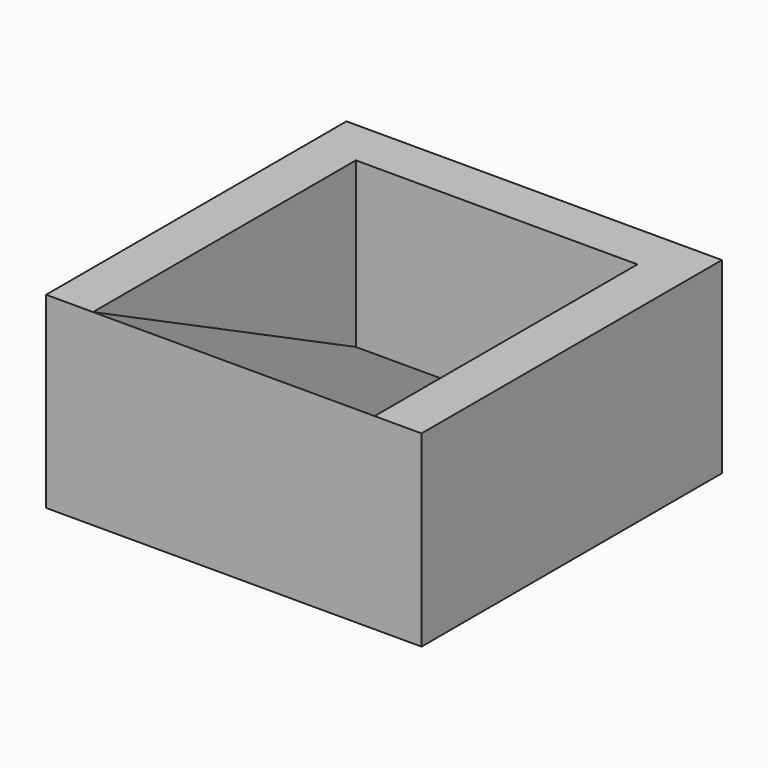
from build123d import *

# Parameters (mm, degrees)
F0_W     = 50.8
F0_H     = 50.8
F1_DEPTH = 25.4
F2_W     = 38.1
F2_H     = 44.45
F3_DEPTH = 25.4
F5_DEPTH = 47.752


with BuildPart() as f1:
    # F0 (on Top) → F1 (new body)
    with BuildSketch(Plane.XY):
        Rectangle(F0_W, F0_H)
    extrude(amount=F1_DEPTH)

    # F2 (on face) → F3 (cut)
    with BuildSketch(Plane.XY.offset(25.4)):
        with Locations((0, -3.175)):
            Rectangle(F2_W, F2_H)
    extrude(amount=-F3_DEPTH, mode=Mode.SUBTRACT)

    # F4 (on face) → F5 (join)
    with BuildSketch(Plane.YZ.offset(25.4)):
        Polygon((25.4, 0), (-25.4, 25.4), (-25.4, 0), (-21.969959, 0), (-21.969959, 9.062302), align=None)
    extrude(amount=-F5_DEPTH)


solid = f1.part
